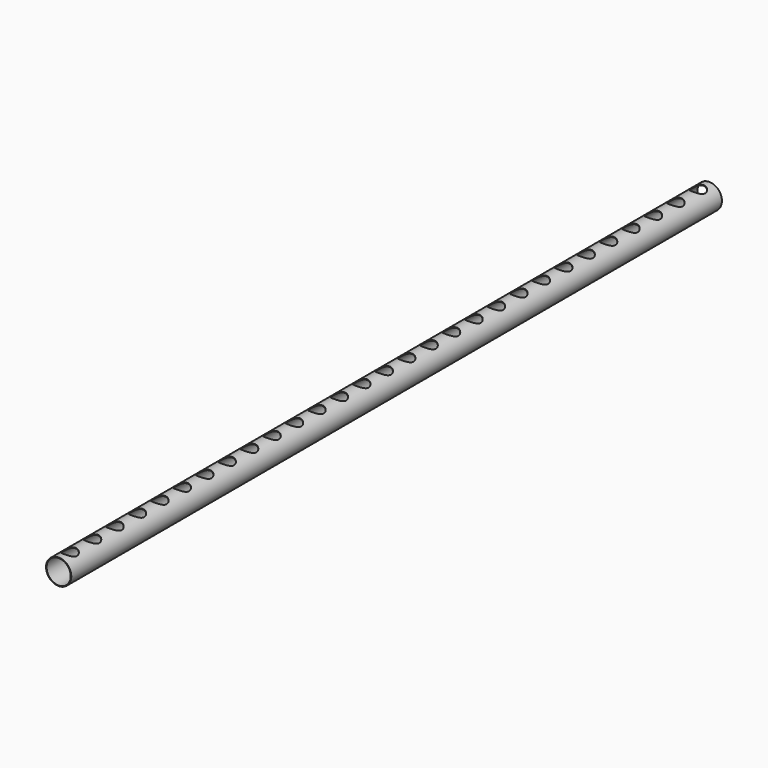
from build123d import *

# Parameters (mm, degrees)
F0_R     = 45
F0_R_2   = 43
F1_DEPTH = 1450
F4_D     = 50
F4_DEPTH = 50
F6_D     = 0.05


with BuildPart() as f1:
    # F0 (on Front) → F1 (new body, symmetric)
    with BuildSketch(Plane.XZ):
        Circle(F0_R)
        Circle(F0_R_2, mode=Mode.SUBTRACT)
    extrude(amount=F1_DEPTH, both=True)

    # F4
    with Locations(Plane.XY.offset(45)):
        with Locations((0, -1400), (0, -1300), (0, -1200), (0, -1100), (0, -1000), (0, -900), (0, -800), (0, -700), (0, -600), (0, -500), (0, -400), (0, -300), (0, -200), (0, -100), (0, 0), (0, 100), (0, 200), (0, 300), (0, 400), (0, 500), (0, 600), (0, 700), (0, 800), (0, 900), (0, 1000), (0, 1100), (0, 1200), (0, 1300), (0, 1400)):
            Hole(F4_D / 2, depth=F4_DEPTH)

    # F6 (through all)
    with Locations(Plane.XY):
        with Locations((0, 0)):
            Hole(F6_D / 2)


solid = f1.part
